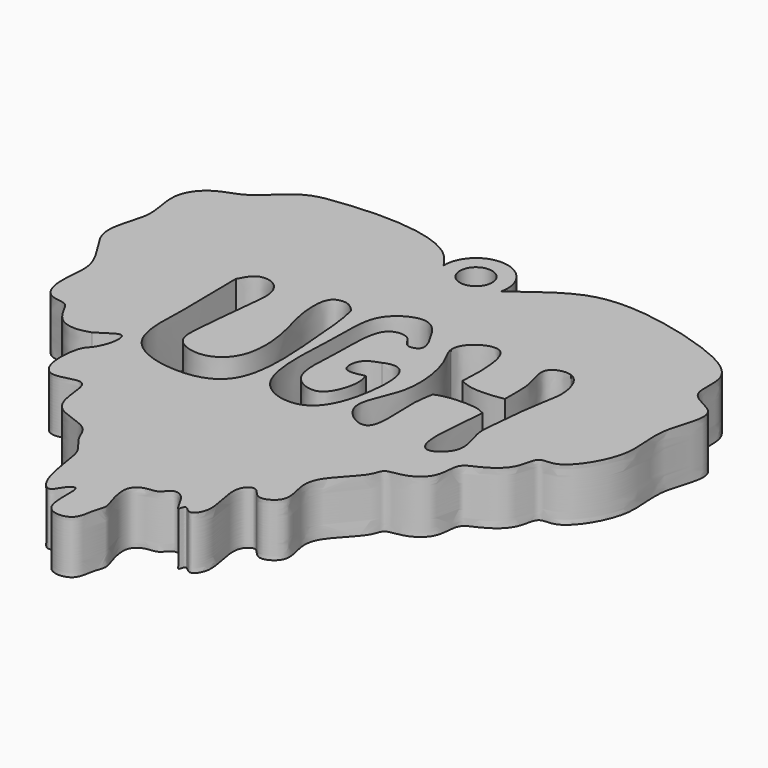
from build123d import *

# Parameters (mm, degrees)
F0_R     = 1.5097213251
F1_DEPTH = 5
F3_DEPTH = 25


with BuildPart() as f1:
    # F0 (on Top) → F1 (new body)
    with BuildSketch(Plane.XY):
        with BuildLine():
            add(Edge.make_bspline(
                [(0.0770751503, 15.1207549497), (0.6069775383, 15.3348102394), (1.3944412455, 15.6529080171), (2.5072332752, 16.4162012521), (2.8992656261, 16.6967486898)],
                knots=[0, 0, 0, 0, 0.0166422055, 0.0249128782, 0.0249128782, 0.0249128782, 0.0249128782], degree=3))
            add(Edge.make_bspline(
                [(-2.9731670092, 17.2762012067), (-2.6943926449, 16.8676792723), (-2.0019532918, 15.8000548571), (-0.7731499663, 14.9563673377), (-0.1639854169, 15.0741468571), (0.0770751503, 15.1207549497)],
                knots=[0.9134899295, 0.9134899295, 0.9134899295, 0.9134899295, 0.9362974225, 0.9747914099, 1, 1, 1, 1], degree=3))
            ThreePointArc((-2.9731670092, 17.2762012067), (-0.2920730361, 14.4009502697), (2.8992656261, 16.6967486898))
        make_face()
        with BuildLine():
            add(Edge.make_bspline(
                [(2.8992656261, 16.6967486898), (3.7325414142, 17.2930601593), (6.1080771435, 19.1189246496), (10.1675583, 21.428470486), (19.6438043273, 19.4284628149), (24.9121897415, 16.6023386187), (23.5006283004, 12.3607419259), (28.0881498161, 11.5940051735), (25.3842328277, 6.5387285611), (26.9132116102, 2.336470356), (23.7039829398, -2.7819882668), (21.412813695, -2.0158437408), (21.4457925799, -4.6451400056), (19.1651183452, -6.176241687), (17.4655533803, -6.68822448), (17.8037987445, -9.2525097568), (15.788247813, -10.759365276), (13.8072553138, -10.7127809813), (13.7804791378, -12.1721958687), (10.9940620638, -14.5887049901), (10.6015022676, -16.6961665618), (11.6573578389, -19.1978105519), (9.2441869464, -20.4398224676), (8.5404001724, -18.6825775943), (7.0848275873, -19.669021214), (7.6684082559, -22.2695863557), (7.9648335801, -24.0699190122), (6.9758042285, -25.3806801382), (6.1328023394, -24.1327452496), (6.0071774548, -25.616886556), (5.2232719712, -23.3959720069), (3.867099663, -22.8015943192), (3.2377051341, -24.0603512263), (2.0112348723, -23.9141281836), (0.673970889, -24.8140648118), (1.3461145493, -27.1994008623), (1.7494737675, -28.2075751683), (1.1941414449, -29.2895958881), (1.1585536066, -31.4083307755), (-2.4051209004, -31.4503415792), (-1.4070937867, -26.5996225157), (-2.7913920525, -27.5919545779), (-3.265344834, -28.9063734029), (-4.6912730229, -27.6481565661), (-5.1570807928, -23.8403925976), (-5.4984128386, -22.3265869899), (-6.9125064242, -20.9205057602), (-7.270301036, -18.9985208311), (-10.821150843, -18.4972045092), (-11.5928557493, -16.1732916622), (-11.6213281245, -13.026890134), (-14.7422147132, -14.7815965725), (-16.0849426365, -12.6755241443), (-15.6812316042, -9.5399922553), (-14.9810076483, -9.0728274563), (-14.1850034458, -7.4552160288), (-14.3095918218, -5.5449337605), (-15.5363235156, -6.5776093796), (-16.4606738836, -7.1549797431)],
                knots=[0.0249128782, 0.0249128782, 0.0249128782, 0.0249128782, 0.0424924257, 0.0695580225, 0.1067942171, 0.1342797645, 0.1555317582, 0.1761111827, 0.2011044721, 0.2271376855, 0.2542493216, 0.2691865079, 0.2860169024, 0.3056608768, 0.3204305233, 0.337994686, 0.3562889306, 0.3717075558, 0.3844489703, 0.4070018168, 0.4245287115, 0.4428229485, 0.458954536, 0.4726815805, 0.4851013275, 0.504292894, 0.5211002, 0.5336423197, 0.544544944, 0.5532930426, 0.5686210073, 0.5820858387, 0.5945175028, 0.6072433927, 0.6209527161, 0.639061821, 0.6514552098, 0.6642602836, 0.6803607684, 0.6979954395, 0.7203775858, 0.7310917839, 0.7439120894, 0.7573994263, 0.781115226, 0.7963715317, 0.8126067564, 0.8284009089, 0.8493880405, 0.8679455779, 0.8858922534, 0.904464097, 0.9213745366, 0.9420911763, 0.9528790153, 0.9690236665, 0.9821781089, 1, 1, 1, 1], degree=3))
            ThreePointArc((2.8992656261, 16.6967486898), (-0.2920730361, 14.4009502697), (-2.9731670092, 17.2762012067))
            add(Edge.make_bspline(
                [(-16.4606738836, -7.1549797431), (-16.8045213614, -7.2679934844), (-17.5493634406, -7.5128037433), (-19.2054748736, -7.3650503996), (-20.2817176662, -5.9098600644), (-20.756976566, -4.5839884512), (-22.6001691791, -4.7757362718), (-23.6009030755, -2.7945329474), (-23.1448415852, -0.0035973821), (-23.3593151243, 1.5769614601), (-24.3397617775, 3.3526569171), (-25.7426529702, 5.2496724446), (-25.7531859343, 7.1005730373), (-25.09111045, 9.0224199559), (-24.8001986973, 10.8297361727), (-25.7011857279, 13.9254441308), (-23.6781259123, 16.2840103643), (-21.0073053561, 16.7111756199), (-18.4197705558, 19.8687526717), (-15.1692880147, 20.4027961019), (-9.5147394716, 20.8190102173), (-4.6672781359, 19.6446573583), (-3.3504816999, 17.8291262496), (-2.9731670092, 17.2762012067)],
                knots=[0, 0, 0, 0, 0.0305284288, 0.0661306533, 0.1040654047, 0.1359807338, 0.1708853726, 0.2106049086, 0.2588344703, 0.2948289676, 0.335329553, 0.3791133576, 0.4172960295, 0.4575910244, 0.4965845095, 0.5463857616, 0.5934122569, 0.6399794144, 0.6956374762, 0.7469134396, 0.8157902034, 0.8826205122, 0.9134899295, 0.9134899295, 0.9134899295, 0.9134899295], degree=3))
        make_face()
        with BuildLine():
            add(Edge.make_bspline(
                [(-15.5363235156, 7.1805529296), (-15.9163935592, 6.8262945081), (-16.906685664, 6.323538218), (-18.3400330585, 6.2819255278), (-19.4584244028, 4.3878267859), (-17.6006361154, 2.112880236), (-14.9521569378, 2.0011966806), (-13.7913078096, -0.565814784), (-10.5033355817, -0.1218812499), (-8.2623188049, 0.6529287188), (-7.8493427924, 0.4896132886), (-7.386239384, 0.4488626312), (-7.4942615484, 1.515419841), (-6.8533578734, 1.5765685179), (-6.3013779441, 2.4903919824), (-5.9422861113, 3.058420344), (-5.129066839, 3.0047922427), (-3.2224178243, 4.4127310269), (-3.6647775543, 7.1035867078), (-2.9103427805, 9.7089011867), (-4.4520435437, 11.8028568633), (-7.2090172331, 11.285099037), (-8.5845160818, 8.2978792389), (-11.0442640935, 9.0217141285), (-12.5592008509, 8.4939953975), (-14.6559890318, 8.4277693088), (-15.174215961, 7.5180687452), (-15.5363235156, 7.1805529296)],
                knots=[0, 0, 0, 0, 0.0395722573, 0.076237578, 0.1174918437, 0.1672005791, 0.2166083375, 0.264268324, 0.3196216257, 0.367472776, 0.3871691767, 0.4043362415, 0.4329838809, 0.4556527167, 0.4877072344, 0.5123526889, 0.5388755845, 0.5836583968, 0.6344683186, 0.6856875331, 0.7312527973, 0.7793816172, 0.8325862266, 0.8781514763, 0.9187648491, 0.9622979671, 1, 1, 1, 1], degree=3))
        make_face(mode=Mode.SUBTRACT)
        with BuildLine():
            add(Edge.make_bspline(
                [(5.9096859768, 10.8425468206), (5.5226920108, 10.6954690575), (4.5753476077, 9.8498187435), (4.0478881412, 7.8434904597), (5.9427476093, 7.5305233969), (4.7659001653, 5.7280996875), (6.1418063251, 3.7549633799), (8.472593667, 4.0072012851), (9.863940517, 1.5823357592), (10.8911672539, -0.8523431139), (12.7746526919, -0.7777339663), (15.3232977729, 1.5212403965), (17.7563753377, 0.8809939126), (18.6636699857, 5.1503099285), (15.1469205073, 3.3696552638), (15.7351807066, 7.2698977691), (15.0766227465, 8.3449034519), (12.1257134355, 7.7565237175), (11.5574843393, 11.2772074222), (9.6249233519, 10.4326747798), (6.8729215477, 10.8285776994), (6.2044118518, 10.9545579274), (5.9096859768, 10.8425468206)],
                knots=[0, 0, 0, 0, 0.0453731498, 0.0913167838, 0.1299506104, 0.1742583242, 0.2240994411, 0.2746236179, 0.3320595906, 0.3876037443, 0.4307976941, 0.4949069755, 0.5463350411, 0.6033549922, 0.6530265669, 0.7131935595, 0.7498730872, 0.8042516389, 0.8612716004, 0.9061600657, 0.9654448326, 1, 1, 1, 1], degree=3))
        make_face(mode=Mode.SUBTRACT)
        with BuildLine():
            add(Edge.make_bspline(
                [(2.8992656261, 16.6967486898), (3.7325414142, 17.2930601593), (6.1080771435, 19.1189246496), (10.1675583, 21.428470486), (19.6438043273, 19.4284628149), (24.9121897415, 16.6023386187), (23.5006283004, 12.3607419259), (28.0881498161, 11.5940051735), (25.3842328277, 6.5387285611), (26.9132116102, 2.336470356), (23.7039829398, -2.7819882668), (21.412813695, -2.0158437408), (21.4457925799, -4.6451400056), (19.1651183452, -6.176241687), (17.4655533803, -6.68822448), (17.8037987445, -9.2525097568), (15.788247813, -10.759365276), (13.8072553138, -10.7127809813), (13.7804791378, -12.1721958687), (10.9940620638, -14.5887049901), (10.6015022676, -16.6961665618), (11.6573578389, -19.1978105519), (9.2441869464, -20.4398224676), (8.5404001724, -18.6825775943), (7.0848275873, -19.669021214), (7.6684082559, -22.2695863557), (7.9648335801, -24.0699190122), (6.9758042285, -25.3806801382), (6.1328023394, -24.1327452496), (6.0071774548, -25.616886556), (5.2232719712, -23.3959720069), (3.867099663, -22.8015943192), (3.2377051341, -24.0603512263), (2.0112348723, -23.9141281836), (0.673970889, -24.8140648118), (1.3461145493, -27.1994008623), (1.7494737675, -28.2075751683), (1.1941414449, -29.2895958881), (1.1585536066, -31.4083307755), (-2.4051209004, -31.4503415792), (-1.4070937867, -26.5996225157), (-2.7913920525, -27.5919545779), (-3.265344834, -28.9063734029), (-4.6912730229, -27.6481565661), (-5.1570807928, -23.8403925976), (-5.4984128386, -22.3265869899), (-6.9125064242, -20.9205057602), (-7.270301036, -18.9985208311), (-10.821150843, -18.4972045092), (-11.5928557493, -16.1732916622), (-11.6213281245, -13.026890134), (-14.7422147132, -14.7815965725), (-16.0849426365, -12.6755241443), (-15.6812316042, -9.5399922553), (-14.9810076483, -9.0728274563), (-14.1850034458, -7.4552160288), (-14.3095918218, -5.5449337605), (-15.5363235156, -6.5776093796), (-16.4606738836, -7.1549797431)],
                knots=[0.0249128782, 0.0249128782, 0.0249128782, 0.0249128782, 0.0424924257, 0.0695580225, 0.1067942171, 0.1342797645, 0.1555317582, 0.1761111827, 0.2011044721, 0.2271376855, 0.2542493216, 0.2691865079, 0.2860169024, 0.3056608768, 0.3204305233, 0.337994686, 0.3562889306, 0.3717075558, 0.3844489703, 0.4070018168, 0.4245287115, 0.4428229485, 0.458954536, 0.4726815805, 0.4851013275, 0.504292894, 0.5211002, 0.5336423197, 0.544544944, 0.5532930426, 0.5686210073, 0.5820858387, 0.5945175028, 0.6072433927, 0.6209527161, 0.639061821, 0.6514552098, 0.6642602836, 0.6803607684, 0.6979954395, 0.7203775858, 0.7310917839, 0.7439120894, 0.7573994263, 0.781115226, 0.7963715317, 0.8126067564, 0.8284009089, 0.8493880405, 0.8679455779, 0.8858922534, 0.904464097, 0.9213745366, 0.9420911763, 0.9528790153, 0.9690236665, 0.9821781089, 1, 1, 1, 1], degree=3))
            ThreePointArc((2.8992656261, 16.6967486898), (-0.2920730361, 14.4009502697), (-2.9731670092, 17.2762012067))
            add(Edge.make_bspline(
                [(-16.4606738836, -7.1549797431), (-16.8045213614, -7.2679934844), (-17.5493634406, -7.5128037433), (-19.2054748736, -7.3650503996), (-20.2817176662, -5.9098600644), (-20.756976566, -4.5839884512), (-22.6001691791, -4.7757362718), (-23.6009030755, -2.7945329474), (-23.1448415852, -0.0035973821), (-23.3593151243, 1.5769614601), (-24.3397617775, 3.3526569171), (-25.7426529702, 5.2496724446), (-25.7531859343, 7.1005730373), (-25.09111045, 9.0224199559), (-24.8001986973, 10.8297361727), (-25.7011857279, 13.9254441308), (-23.6781259123, 16.2840103643), (-21.0073053561, 16.7111756199), (-18.4197705558, 19.8687526717), (-15.1692880147, 20.4027961019), (-9.5147394716, 20.8190102173), (-4.6672781359, 19.6446573583), (-3.3504816999, 17.8291262496), (-2.9731670092, 17.2762012067)],
                knots=[0, 0, 0, 0, 0.0305284288, 0.0661306533, 0.1040654047, 0.1359807338, 0.1708853726, 0.2106049086, 0.2588344703, 0.2948289676, 0.335329553, 0.3791133576, 0.4172960295, 0.4575910244, 0.4965845095, 0.5463857616, 0.5934122569, 0.6399794144, 0.6956374762, 0.7469134396, 0.8157902034, 0.8826205122, 0.9134899295, 0.9134899295, 0.9134899295, 0.9134899295], degree=3))
        make_face()
        with BuildLine():
            add(Edge.make_bspline(
                [(-15.5363235156, 7.1805529296), (-15.9163935592, 6.8262945081), (-16.906685664, 6.323538218), (-18.3400330585, 6.2819255278), (-19.4584244028, 4.3878267859), (-17.6006361154, 2.112880236), (-14.9521569378, 2.0011966806), (-13.7913078096, -0.565814784), (-10.5033355817, -0.1218812499), (-8.2623188049, 0.6529287188), (-7.8493427924, 0.4896132886), (-7.386239384, 0.4488626312), (-7.4942615484, 1.515419841), (-6.8533578734, 1.5765685179), (-6.3013779441, 2.4903919824), (-5.9422861113, 3.058420344), (-5.129066839, 3.0047922427), (-3.2224178243, 4.4127310269), (-3.6647775543, 7.1035867078), (-2.9103427805, 9.7089011867), (-4.4520435437, 11.8028568633), (-7.2090172331, 11.285099037), (-8.5845160818, 8.2978792389), (-11.0442640935, 9.0217141285), (-12.5592008509, 8.4939953975), (-14.6559890318, 8.4277693088), (-15.174215961, 7.5180687452), (-15.5363235156, 7.1805529296)],
                knots=[0, 0, 0, 0, 0.0395722573, 0.076237578, 0.1174918437, 0.1672005791, 0.2166083375, 0.264268324, 0.3196216257, 0.367472776, 0.3871691767, 0.4043362415, 0.4329838809, 0.4556527167, 0.4877072344, 0.5123526889, 0.5388755845, 0.5836583968, 0.6344683186, 0.6856875331, 0.7312527973, 0.7793816172, 0.8325862266, 0.8781514763, 0.9187648491, 0.9622979671, 1, 1, 1, 1], degree=3))
        make_face(mode=Mode.SUBTRACT)
        with BuildLine():
            add(Edge.make_bspline(
                [(5.9096859768, 10.8425468206), (5.5226920108, 10.6954690575), (4.5753476077, 9.8498187435), (4.0478881412, 7.8434904597), (5.9427476093, 7.5305233969), (4.7659001653, 5.7280996875), (6.1418063251, 3.7549633799), (8.472593667, 4.0072012851), (9.863940517, 1.5823357592), (10.8911672539, -0.8523431139), (12.7746526919, -0.7777339663), (15.3232977729, 1.5212403965), (17.7563753377, 0.8809939126), (18.6636699857, 5.1503099285), (15.1469205073, 3.3696552638), (15.7351807066, 7.2698977691), (15.0766227465, 8.3449034519), (12.1257134355, 7.7565237175), (11.5574843393, 11.2772074222), (9.6249233519, 10.4326747798), (6.8729215477, 10.8285776994), (6.2044118518, 10.9545579274), (5.9096859768, 10.8425468206)],
                knots=[0, 0, 0, 0, 0.0453731498, 0.0913167838, 0.1299506104, 0.1742583242, 0.2240994411, 0.2746236179, 0.3320595906, 0.3876037443, 0.4307976941, 0.4949069755, 0.5463350411, 0.6033549922, 0.6530265669, 0.7131935595, 0.7498730872, 0.8042516389, 0.8612716004, 0.9061600657, 0.9654448326, 1, 1, 1, 1], degree=3))
        make_face(mode=Mode.SUBTRACT)
        with BuildLine():
            add(Edge.make_bspline(
                [(-2.9731670092, 17.2762012067), (-2.6943926449, 16.8676792723), (-2.0019532918, 15.8000548571), (-0.7731499663, 14.9563673377), (-0.1639854169, 15.0741468571), (0.0770751503, 15.1207549497)],
                knots=[0.9134899295, 0.9134899295, 0.9134899295, 0.9134899295, 0.9362974225, 0.9747914099, 1, 1, 1, 1], degree=3))
            add(Edge.make_bspline(
                [(0.0770751503, 15.1207549497), (0.6069775383, 15.3348102394), (1.3944412455, 15.6529080171), (2.5072332752, 16.4162012521), (2.8992656261, 16.6967486898)],
                knots=[0, 0, 0, 0, 0.0166422055, 0.0249128782, 0.0249128782, 0.0249128782, 0.0249128782], degree=3))
            ThreePointArc((2.8992656261, 16.6967486898), (2.9555377269, 17.0267326712), (2.9743746239, 17.3609498888))
            ThreePointArc((2.9743746239, 17.3609498888), (-0.0423786428, 20.3350225937), (-2.9731670092, 17.2762012067))
        make_face()
        with Locations((0, 17.3609498888)):
            Circle(F0_R, mode=Mode.SUBTRACT)
        with BuildLine():
            add(Edge.make_bspline(
                [(-15.5363235156, 7.1805529296), (-15.9163935592, 6.8262945081), (-16.906685664, 6.323538218), (-18.3400330585, 6.2819255278), (-19.4584244028, 4.3878267859), (-17.6006361154, 2.112880236), (-14.9521569378, 2.0011966806), (-13.7913078096, -0.565814784), (-10.5033355817, -0.1218812499), (-8.2623188049, 0.6529287188), (-7.8493427924, 0.4896132886), (-7.386239384, 0.4488626312), (-7.4942615484, 1.515419841), (-6.8533578734, 1.5765685179), (-6.3013779441, 2.4903919824), (-5.9422861113, 3.058420344), (-5.129066839, 3.0047922427), (-3.2224178243, 4.4127310269), (-3.6647775543, 7.1035867078), (-2.9103427805, 9.7089011867), (-4.4520435437, 11.8028568633), (-7.2090172331, 11.285099037), (-8.5845160818, 8.2978792389), (-11.0442640935, 9.0217141285), (-12.5592008509, 8.4939953975), (-14.6559890318, 8.4277693088), (-15.174215961, 7.5180687452), (-15.5363235156, 7.1805529296)],
                knots=[0, 0, 0, 0, 0.0395722573, 0.076237578, 0.1174918437, 0.1672005791, 0.2166083375, 0.264268324, 0.3196216257, 0.367472776, 0.3871691767, 0.4043362415, 0.4329838809, 0.4556527167, 0.4877072344, 0.5123526889, 0.5388755845, 0.5836583968, 0.6344683186, 0.6856875331, 0.7312527973, 0.7793816172, 0.8325862266, 0.8781514763, 0.9187648491, 0.9622979671, 1, 1, 1, 1], degree=3))
        make_face()
        with BuildLine():
            add(Edge.make_bspline(
                [(5.9096859768, 10.8425468206), (5.5226920108, 10.6954690575), (4.5753476077, 9.8498187435), (4.0478881412, 7.8434904597), (5.9427476093, 7.5305233969), (4.7659001653, 5.7280996875), (6.1418063251, 3.7549633799), (8.472593667, 4.0072012851), (9.863940517, 1.5823357592), (10.8911672539, -0.8523431139), (12.7746526919, -0.7777339663), (15.3232977729, 1.5212403965), (17.7563753377, 0.8809939126), (18.6636699857, 5.1503099285), (15.1469205073, 3.3696552638), (15.7351807066, 7.2698977691), (15.0766227465, 8.3449034519), (12.1257134355, 7.7565237175), (11.5574843393, 11.2772074222), (9.6249233519, 10.4326747798), (6.8729215477, 10.8285776994), (6.2044118518, 10.9545579274), (5.9096859768, 10.8425468206)],
                knots=[0, 0, 0, 0, 0.0453731498, 0.0913167838, 0.1299506104, 0.1742583242, 0.2240994411, 0.2746236179, 0.3320595906, 0.3876037443, 0.4307976941, 0.4949069755, 0.5463350411, 0.6033549922, 0.6530265669, 0.7131935595, 0.7498730872, 0.8042516389, 0.8612716004, 0.9061600657, 0.9654448326, 1, 1, 1, 1], degree=3))
        make_face()
    extrude(amount=F1_DEPTH)

    # F2 (on face) → F3 (cut)
    with BuildSketch(Plane.XY.offset(5)):
        with BuildLine():
            add(Edge.make_bspline(
                [(-13.5522093624, 6.081069354), (-13.3726635989, 6.3165569734), (-12.9388067091, 7.5537283397), (-11.0930585349, 7.608966963), (-9.8647185193, 6.0410225057), (-10.3692410167, 3.0291895018), (-10.6877791869, -1.2472056271), (-11.0398382883, -4.3450673404), (-7.7518322423, -5.3100889759), (-5.146966726, -3.31498894), (-5.1967723478, 1.1500584644), (-6.4114180151, 4.4704713122), (-6.4809259144, 7.2021427144), (-5.9023966532, 8.1677434707), (-4.6127807092, 8.3316308113), (-3.9292679233, 7.6144139105), (-3.768239636, 7.3762997054)],
                knots=[0, 0, 0, 0, 0.0558694907, 0.114089221, 0.1749277157, 0.2561776494, 0.3565135287, 0.4335963577, 0.5102256266, 0.5892564274, 0.6857213097, 0.7770582465, 0.852542863, 0.8987618474, 0.9488711359, 1, 1, 1, 1], degree=3))
            add(Edge.make_bspline(
                [(-13.5522093624, 6.081069354), (-13.5848305947, 3.9556256878), (-13.2741168395, 0.2841190073), (-13.9846867529, -6.5784149613), (-8.1742785658, -8.4869185717), (-2.2330567216, -7.1041530538), (-3.203502789, 2.6992271657), (-3.4052000578, 5.8915054277), (-3.768239636, 7.3762997054)],
                knots=[0, 0, 0, 0, 0.1698812137, 0.3375632895, 0.492998516, 0.6440052314, 0.8465423692, 1, 1, 1, 1], degree=3))
        make_face()
        with BuildLine():
            add(Edge.make_bspline(
                [(3.54329939, 0), (3.8251043297, -0.8627147181), (3.7153390061, -2.2410086234), (2.5453797694, -4.7186448415), (-0.9301724054, -3.4150014122), (-0.1916708165, 1.4667660409), (-0.5730380753, 6.926041668), (2.3640278809, 6.9749473245), (2.6702386499, 5.3604643681), (4.2926200225, 5.840123705), (3.9544630258, 6.6590804408), (3.7824185565, 7.0757470094)],
                knots=[0, 0, 0, 0, 0.1127991366, 0.2219955605, 0.3376480314, 0.499741453, 0.6638863218, 0.7626119391, 0.8455728901, 0.921430757, 1, 1, 1, 1], degree=3))
            add(Edge.make_bspline(
                [(3.7824185565, 7.0757470094), (3.1861462781, 8.2015306405), (1.9939532505, 10.4524652589), (-2.2727582931, 8.2374386949), (-1.7585089128, 3.3192319001), (-2.9216803857, -6.0546288674), (3.5293785013, -7.4316321975), (5.5309693077, -2.6501378396), (5.666610719, 2.9180335499), (3.5881897673, 2.5933208554), (3.1598136228, 2.3569806105)],
                knots=[0, 0, 0, 0, 0.1001752704, 0.2002931571, 0.3231669133, 0.4851333058, 0.5990485509, 0.7201041883, 0.8415359475, 0.8951784912, 0.8951784912, 0.8951784912, 0.8951784912], degree=3))
            add(Edge.make_bspline(
                [(3.1598136228, 2.3569806105), (2.9676172063, 2.2509435476), (2.3132902591, 1.6691391618), (3.1591951847, 0.9120241739), (3.54329939, 0)],
                knots=[0.8951784912, 0.8951784912, 0.8951784912, 0.8951784912, 0.9192459021, 1, 1, 1, 1], degree=3))
        make_face()
        with BuildLine():
            add(Edge.make_bspline(
                [(3.1598136228, 2.3569806105), (2.9676172063, 2.2509435476), (2.3132902591, 1.6691391618), (3.1591951847, 0.9120241739), (3.54329939, 0)],
                knots=[0.8951784912, 0.8951784912, 0.8951784912, 0.8951784912, 0.9192459021, 1, 1, 1, 1], degree=3))
            add(Edge.make_bspline(
                [(3.1598136228, 2.3569806105), (2.6223536311, 2.1751663064), (1.5414267771, 1.8477921358), (1.3546391371, -0.5060085882), (2.7924812426, -0.1723731935), (3.54329939, 0)],
                knots=[0, 0, 0, 0, 0.3287514616, 0.6499831349, 1, 1, 1, 1], degree=3))
        make_face()
        with BuildLine():
            add(Edge.make_bspline(
                [(9.5700440815, 3.8083444103), (9.7192154513, 5.9528429148), (9.6234930229, 10.3372150532), (6.2093800794, 8.8748424729), (5.7562945288, 7.6312547357), (5.8158678003, 7.132417988)],
                knots=[0.7159014998, 0.7159014998, 0.7159014998, 0.7159014998, 0.8333425969, 0.9238874304, 1, 1, 1, 1], degree=3))
            add(Edge.make_bspline(
                [(5.8158678003, 7.132417988), (5.8789567066, 6.6041430742), (6.8517430275, 5.3927141858), (7.9772623124, -0.1526668462), (4.6615576288, -4.4132464808), (9.5513796627, -7.5958751019), (8.7777485412, -1.5827264536), (9.0638580249, -0.1274673319), (9.2100311975, 0.7568561423)],
                knots=[0, 0, 0, 0, 0.0806042485, 0.2166228281, 0.3429434093, 0.4422346441, 0.5649835127, 0.6473555532, 0.6473555532, 0.6473555532, 0.6473555532], degree=3))
            add(Edge.make_bspline(
                [(9.2100311975, 0.7568561423), (9.2566951685, 1.0391654348), (9.3866423613, 1.8547315793), (9.5163793503, 3.0368563162), (9.5700440815, 3.8083444103)],
                knots=[0.6473555532, 0.6473555532, 0.6473555532, 0.6473555532, 0.6736518047, 0.7159014998, 0.7159014998, 0.7159014998, 0.7159014998], degree=3))
        make_face()
        with BuildLine():
            add(Edge.make_bspline(
                [(9.2100311975, 0.7568561423), (9.2566951685, 1.0391654348), (9.3866423613, 1.8547315793), (9.5163793503, 3.0368563162), (9.5700440815, 3.8083444103)],
                knots=[0.6473555532, 0.6473555532, 0.6473555532, 0.6473555532, 0.6736518047, 0.7159014998, 0.7159014998, 0.7159014998, 0.7159014998], degree=3))
            add(Edge.make_bspline(
                [(9.2100311975, 0.7568561423), (9.6515008147, 0.9368814259), (10.6304886049, 1.2439870479), (13.372734582, 1.1919391878), (13.6725670609, 0.8055647724), (13.913186267, 0.7591948379)],
                knots=[0, 0, 0, 0, 0.3409579623, 0.776949874, 1, 1, 1, 1], degree=3))
            add(Edge.make_bspline(
                [(13.7887168676, 3.5092674661), (13.8094719945, 2.6524545612), (13.9602461436, 1.9619084278), (13.913186267, 0.7591948379)],
                knots=[0.235090199, 0.235090199, 0.235090199, 0.235090199, 0.3180021626, 0.3180021626, 0.3180021626, 0.3180021626], degree=3))
            add(Edge.make_bspline(
                [(9.5700440815, 3.8083444103), (9.9993062414, 3.6184860883), (10.8535413928, 3.1937231352), (12.6675851311, 3.3223438434), (13.7887168676, 3.5092674661)],
                knots=[0, 0, 0, 0, 0.4036202233, 1, 1, 1, 1], degree=3))
        make_face()
        with BuildLine():
            add(Edge.make_bspline(
                [(13.7887168676, 3.5092674661), (13.8094719945, 2.6524545612), (13.9602461436, 1.9619084278), (13.913186267, 0.7591948379)],
                knots=[0.235090199, 0.235090199, 0.235090199, 0.235090199, 0.3180021626, 0.3180021626, 0.3180021626, 0.3180021626], degree=3))
            add(Edge.make_bspline(
                [(13.913186267, 0.7591948379), (13.8427434376, -1.0411190274), (13.0915780512, -5.3515765839), (14.5572457666, -6.8023818874), (16.810236038, -4.8476676095), (15.4377190457, -2.0086024305), (15.7914996984, -0.0184045792), (16.041987706, 4.1108870191), (16.9112875941, 7.0265627673), (15.9977876136, 9.2209573902), (15.2212306857, 9.5236124471)],
                knots=[0.3180021626, 0.3180021626, 0.3180021626, 0.3180021626, 0.4421111432, 0.4994761322, 0.5730902015, 0.6564783171, 0.7284454038, 0.8288507793, 0.9185074289, 1, 1, 1, 1], degree=3))
            add(Edge.make_bspline(
                [(15.2212306857, 9.5236124471), (14.5555152356, 9.7830681807), (12.6096178531, 9.1760208764), (13.9968952829, 6.4606810599), (13.7669874063, 4.406302828), (13.7887168676, 3.5092674661)],
                knots=[0, 0, 0, 0, 0.0698607684, 0.1482859937, 0.235090199, 0.235090199, 0.235090199, 0.235090199], degree=3))
        make_face()
    extrude(amount=-F3_DEPTH, mode=Mode.SUBTRACT)


solid = f1.part
